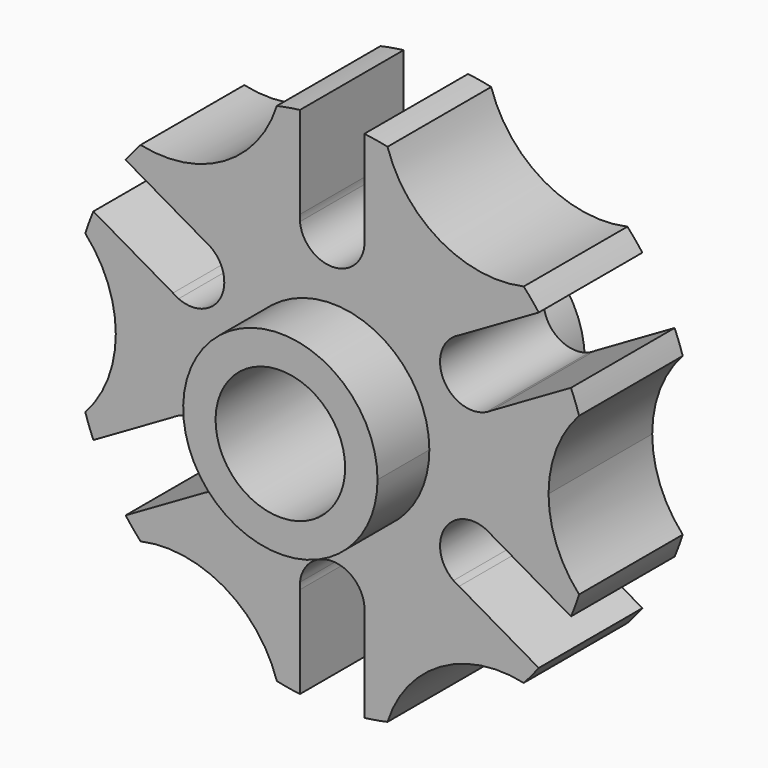
from build123d import *

# Parameters (mm, degrees)
F1_DEPTH = 12.7
F2_DEPTH = 25.4


with BuildPart() as f1:
    # F0 (on Front) → F1 (new body, symmetric)
    with BuildSketch(Plane.XZ):
        with BuildLine():
            ThreePointArc((42.418, 0), (43.966661, 8.270817), (48.402813, 15.421014))
            ThreePointArc((48.402813, 15.421014), (47.655949, 17.594048), (46.811583, 19.731085))
            Line((46.811583, 19.731085), (31.205318, 10.720804))
            ThreePointArc((31.205318, 10.720804), (30.671307, 10.375739), (30.105466, 10.085804))
            ThreePointArc((30.105466, 10.085804), (21.997045, 12.7), (23.787295, 21.029196))
            ThreePointArc((23.787295, 21.029196), (24.321307, 21.374261), (24.887148, 21.664196))
            Line((24.887148, 21.664196), (40.493412, 30.674477))
            ThreePointArc((40.493412, 30.674477), (39.064867, 32.474238), (37.556396, 34.207559))
            ThreePointArc((37.556396, 34.207559), (21.209, 36.735066), (10.846417, 49.628573))
            ThreePointArc((10.846417, 49.628573), (8.591082, 50.068286), (6.31817, 50.405562))
            Line((6.31817, 50.405562), (6.31817, 32.385))
            ThreePointArc((6.31817, 32.385), (6.35, 31.75), (6.31817, 31.115))
            ThreePointArc((6.31817, 31.115), (0, 25.4), (-6.31817, 31.115))
            ThreePointArc((-6.31817, 31.115), (-6.35, 31.75), (-6.31817, 32.385))
            Line((-6.31817, 32.385), (-6.31817, 50.405562))
            ThreePointArc((-6.31817, 50.405562), (-8.591082, 50.068286), (-10.846417, 49.628573))
            ThreePointArc((-10.846417, 49.628573), (-21.209, 36.735066), (-37.556396, 34.207559))
            ThreePointArc((-37.556396, 34.207559), (-39.064867, 32.474238), (-40.493412, 30.674477))
            Line((-40.493412, 30.674477), (-23.787295, 21.029196))
            ThreePointArc((-23.787295, 21.029196), (-21.997045, 12.7), (-30.105466, 10.085804))
            ThreePointArc((-30.105466, 10.085804), (-30.671307, 10.375739), (-31.205318, 10.720804))
            Line((-31.205318, 10.720804), (-46.811583, 19.731085))
            ThreePointArc((-46.811583, 19.731085), (-47.655949, 17.594048), (-48.402813, 15.421014))
            ThreePointArc((-48.402813, 15.421014), (-42.418, 0), (-48.402813, -15.421014))
            ThreePointArc((-48.402813, -15.421014), (-47.655949, -17.594048), (-46.811583, -19.731085))
            Line((-46.811583, -19.731085), (-31.205318, -10.720804))
            ThreePointArc((-31.205318, -10.720804), (-30.671307, -10.375739), (-30.105466, -10.085804))
            ThreePointArc((-30.105466, -10.085804), (-21.997045, -12.7), (-23.787295, -21.029196))
            ThreePointArc((-23.787295, -21.029196), (-24.321307, -21.374261), (-24.887148, -21.664196))
            Line((-24.887148, -21.664196), (-40.493412, -30.674477))
            ThreePointArc((-40.493412, -30.674477), (-39.064867, -32.474238), (-37.556396, -34.207559))
            ThreePointArc((-37.556396, -34.207559), (-21.209, -36.735066), (-10.846417, -49.628573))
            ThreePointArc((-10.846417, -49.628573), (-8.591082, -50.068286), (-6.31817, -50.405562))
            Line((-6.31817, -50.405562), (-6.31817, -32.385))
            ThreePointArc((-6.31817, -32.385), (-6.35, -31.75), (-6.31817, -31.115))
            ThreePointArc((-6.31817, -31.115), (0, -25.4), (6.31817, -31.115))
            ThreePointArc((6.31817, -31.115), (6.35, -31.75), (6.31817, -32.385))
            Line((6.31817, -32.385), (6.31817, -50.405562))
            ThreePointArc((6.31817, -50.405562), (8.591082, -50.068286), (10.846417, -49.628573))
            ThreePointArc((10.846417, -49.628573), (14.820593, -42.211654), (21.209, -36.735066))
            Line((21.209, -36.735066), (9.525, -16.497784))
            ThreePointArc((9.525, -16.497784), (-16.497784, 9.525), (19.05, 0))
            Line((19.05, 0), (42.418, 0))
        make_face()
        with BuildLine():
            ThreePointArc((48.402813, -15.421014), (43.966661, -8.270817), (42.418, 0))
            Line((42.418, 0), (19.05, 0))
            ThreePointArc((19.05, 0), (16.497784, -9.525), (9.525, -16.497784))
            Line((9.525, -16.497784), (21.209, -36.735066))
            ThreePointArc((21.209, -36.735066), (29.146068, -33.940837), (37.556396, -34.207559))
            ThreePointArc((37.556396, -34.207559), (39.064867, -32.474238), (40.493412, -30.674477))
            Line((40.493412, -30.674477), (24.887148, -21.664196))
            ThreePointArc((24.887148, -21.664196), (24.321307, -21.374261), (23.787295, -21.029196))
            ThreePointArc((23.787295, -21.029196), (21.997045, -12.7), (30.105466, -10.085804))
            ThreePointArc((30.105466, -10.085804), (30.671307, -10.375739), (31.205318, -10.720804))
            Line((31.205318, -10.720804), (46.811583, -19.731085))
            ThreePointArc((46.811583, -19.731085), (47.655949, -17.594048), (48.402813, -15.421014))
        make_face()
    extrude(amount=F1_DEPTH, both=True)

    # F0 (on Front) → F2 (join, symmetric)
    with BuildSketch(Plane.XZ):
        with BuildLine():
            ThreePointArc((9.525, -16.497784), (16.497784, -9.525), (19.05, 0))
            Line((19.05, 0), (12.7, 0))
            ThreePointArc((12.7, 0), (10.998523, -6.35), (6.35, -10.998523))
            Line((6.35, -10.998523), (9.525, -16.497784))
        make_face()
        with BuildLine():
            Line((12.7, 0), (19.05, 0))
            ThreePointArc((19.05, 0), (-16.497784, 9.525), (9.525, -16.497784))
            Line((9.525, -16.497784), (6.35, -10.998523))
            ThreePointArc((6.35, -10.998523), (-10.998523, 6.35), (12.7, 0))
        make_face()
    extrude(amount=F2_DEPTH, both=True)


solid = f1.part
